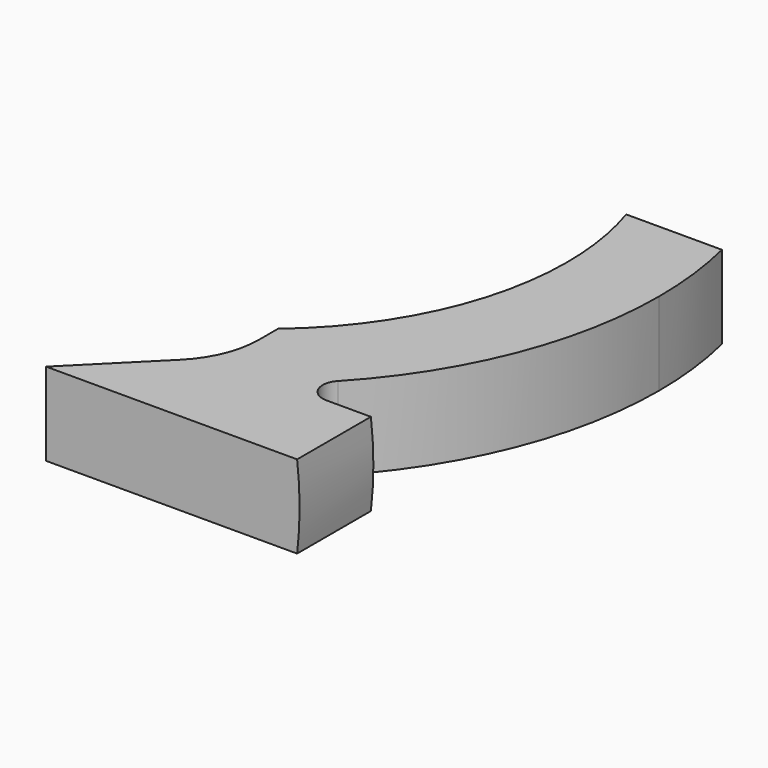
from build123d import *

# Parameters (mm, degrees)
F1_DEPTH = 0.9
F2_R     = 8
F2_R_2   = 7.5
F3_DEPTH = 2


with BuildPart() as f1:
    # F0 (on Top) → F1 (new body, symmetric)
    with BuildSketch(Plane.XY):
        with BuildLine():
            Line((2, 0), (7.5, 0))
            Line((7.5, 0), (7.5, 2))
            Line((7.5, 2), (6.480741, 2))
            ThreePointArc((6.480741, 2), (6.113547, 2.241354), (6.189471, 2.674157))
            ThreePointArc((6.189471, 2.674157), (7.901282, 5.366353), (8.5, 8.5))
            Line((8.5, 8.5), (6.5, 8.5))
            ThreePointArc((6.5, 8.5), (5.897033, 5.765955), (4.2, 3.539153))
            Line((4.2, 3.539153), (4.2, 3.028427))
            ThreePointArc((4.2, 3.028427), (4.047759, 2.26306), (3.614214, 1.614214))
            Line((3.614214, 1.614214), (2, 0))
        make_face()
        with BuildLine():
            Line((6.5, 8.5), (8.5, 8.5))
            ThreePointArc((8.5, 8.5), (8.440128, 9.507094), (8.261356, 10.5))
            Line((8.261356, 10.5), (6.184658, 10.5))
            ThreePointArc((6.184658, 10.5), (6.420681, 9.512354), (6.5, 8.5))
        make_face()
    extrude(amount=F1_DEPTH, both=True)

    # F2 (on face) → F3 (cut, through all)
    with BuildSketch(Plane.XZ):
        Circle(F2_R)
        Circle(F2_R_2, mode=Mode.SUBTRACT)
    extrude(amount=-F3_DEPTH, mode=Mode.SUBTRACT)


solid = f1.part
